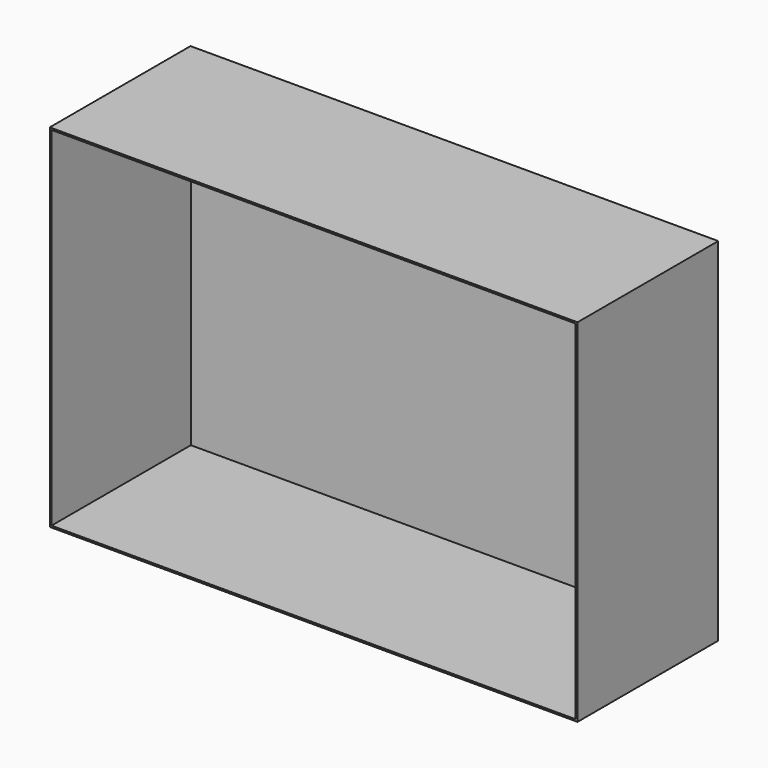
from build123d import *

# Parameters (mm, degrees)
F0_W     = 300
F0_H     = 200
F0_W_2   = 298
F0_H_2   = 198
F1_DEPTH = 1
F2_DEPTH = 100


with BuildPart() as f1:
    # F0 (on Front) → F1 (new body)
    with BuildSketch(Plane.XZ):
        Rectangle(F0_W, F0_H)
        Rectangle(F0_W_2, F0_H_2, mode=Mode.SUBTRACT)
        Rectangle(F0_W_2, F0_H_2)
    extrude(amount=F1_DEPTH)

    # F0 (on Front) → F2 (join)
    with BuildSketch(Plane.XZ):
        Rectangle(F0_W, F0_H)
        Rectangle(F0_W_2, F0_H_2, mode=Mode.SUBTRACT)
    extrude(amount=F2_DEPTH)


solid = f1.part
